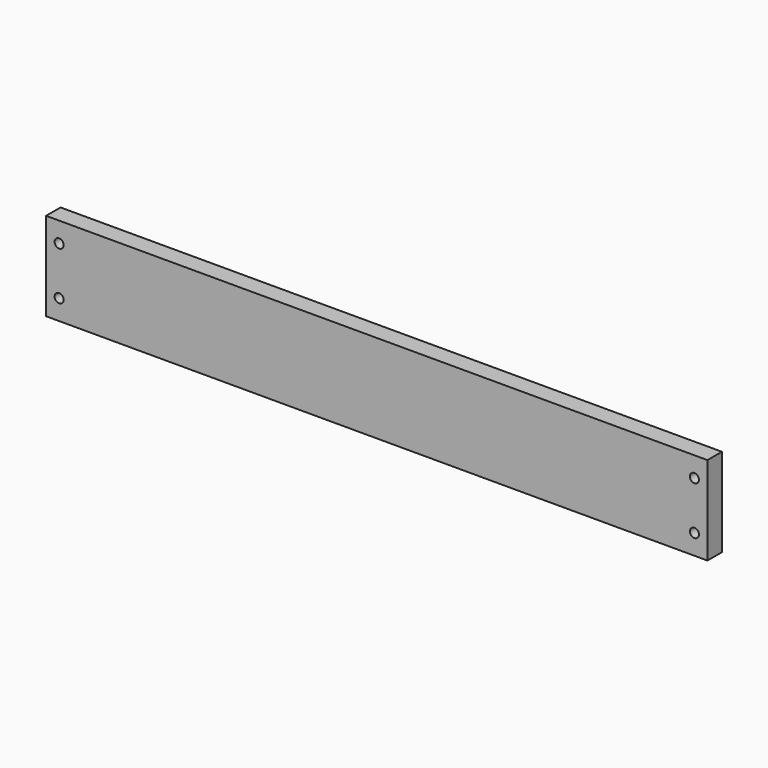
from build123d import *

# Parameters (mm, degrees)
F0_W     = 18
F0_H     = 88
F1_DEPTH = 329
F2_R     = 4.5
F3_DEPTH = 18.001


with BuildPart() as f1:
    # F0 (on Right) → F1 (new body)
    with BuildSketch(Plane.YZ):
        with Locations((9, 0)):
            Rectangle(F0_W, F0_H)
    extrude(amount=F1_DEPTH)

    # F2 (on face) → F3 (cut, through all)
    with BuildSketch(Plane(origin=(0, 18, 0), x_dir=(-1, 0, 0), z_dir=(0, 1, 0))):
        with Locations((-316, 24)):
            Circle(F2_R)
        with Locations((-316, -24)):
            Circle(F2_R)
    extrude(amount=-F3_DEPTH, mode=Mode.SUBTRACT)

    # F4: F1 across plane


with BuildPart() as f1_1:
    add(f1.part)
    add(f1.part.mirror(Plane.YZ))


solid = f1_1.part
